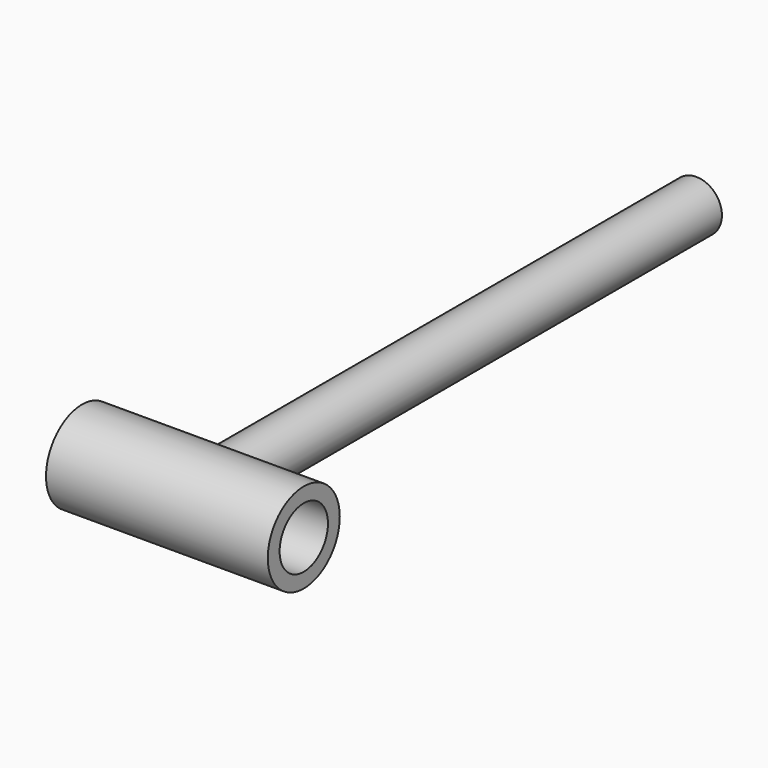
from build123d import *

# Parameters (mm, degrees)
F0_R     = 7.62
F1_DEPTH = 177.8
F2_R     = 13.3961088479
F3_DEPTH = 33.02
F4_R     = 8.9999575192
F5_DEPTH = 83.312


with BuildPart() as f1:
    # F0 (on Front) → F1 (new body)
    with BuildSketch(Plane.XZ):
        Circle(F0_R)
    extrude(amount=F1_DEPTH)

    # F2 (on Right) → F3 (join, symmetric)
    with BuildSketch(Plane.YZ):
        with Locations((-187.3978376389, 0)):
            Circle(F2_R)
    extrude(amount=F3_DEPTH, both=True)

    # F4 (on face) → F5 (cut)
    with BuildSketch(Plane.YZ.offset(33.02)):
        with Locations((-187.3978376389, 0)):
            Circle(F4_R)
    extrude(amount=-F5_DEPTH, mode=Mode.SUBTRACT)


solid = f1.part
